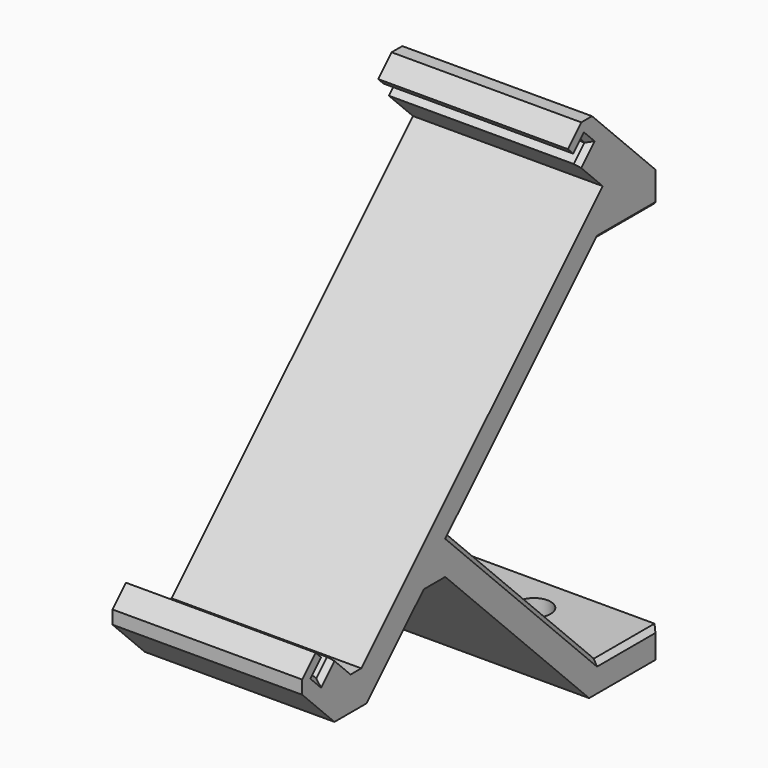
from build123d import *

# Parameters (mm, degrees)
CYLINDER004_R     = 3
CYLINDER004_DEPTH = 10
PAD010_DEPTH      = 10
SKETCH036_R       = 1.75
POCKET025_DEPTH   = 45.001
CHAMFER023_1_SIZE = 3
CHAMFER023_2_SIZE = 2
CHAMFER023_3_SIZE = 1
CHAMFER024_SIZE   = 0.5


with BuildPart() as boardbracketscrewheadcylinder001:
    # Cylinder004 → Cylinder004 (new body)
    with BuildSketch(Plane(origin=(0, 0.5, 24), x_dir=(1, 0, 0), z_dir=(0, 0, 1))):
        Circle(CYLINDER004_R)
    extrude(amount=CYLINDER004_DEPTH)


with BuildPart() as obj1:
    # Sketch035 → Pad010 (new body, symmetric)
    with BuildSketch(Plane.YZ):
        Polygon((4.5, 21), (4.5, 24), (-0.12132, 28.62132), (-5.071068, 33.571068), (-7.545942, 31.096194), (-6.838835, 30.389087), (-5.778175, 31.449747), (-4.717514, 30.389087), (-6.131728, 28.974874), (-2.949747, 25.792893), (-35.476659, -6.734019), (-38.65864, -3.552038), (-40.072853, -4.966252), (-41.133514, -3.905592), (-40.072853, -2.844931), (-40.77996, -2.137825), (-43.254834, -4.612698), (-38.305087, -9.562446), (-36.183766, -11.683766), (-25.12132, -0.62132), (-4.742641, -21), (4.5, -21), (4.5, -18), (-3.5, -18), (-23, 1.5), (-3.5, 21), align=None)
    extrude(amount=PAD010_DEPTH, both=True)

    # Cut002: cut BoardBracketScrewHeadCylinder001
    add(boardbracketscrewheadcylinder001.part, mode=Mode.SUBTRACT)

    # Sketch036 → Pocket025 (cut, through all)
    with BuildSketch(Plane.XY.offset(24)):
        with Locations((0, 0.5)):
            Circle(SKETCH036_R)
    extrude(amount=-POCKET025_DEPTH, mode=Mode.SUBTRACT)

    # Chamfer023 1
    chamfer023_1_edges = [obj1.edges().sort_by_distance(p)[0] for p in [
        (0, -36.183766, -11.683766),
    ]]
    chamfer(chamfer023_1_edges, length=CHAMFER023_1_SIZE)

    # Chamfer023 2
    chamfer023_2_edges = [obj1.edges().sort_by_distance(p)[0] for p in [
        (0, -25.12132, -0.62132),
    ]]
    chamfer(chamfer023_2_edges, length=CHAMFER023_2_SIZE)

    # Chamfer023 3
    chamfer023_3_edges = [obj1.edges().sort_by_distance(p)[0] for p in [
        (0, -35.476659, -6.734019),
        (0, -43.254834, -4.612698),
        (0, -5.071068, 33.571068),
    ]]
    chamfer(chamfer023_3_edges, length=CHAMFER023_3_SIZE)

    # Chamfer024
    chamfer024_edges = [obj1.edges().sort_by_distance(p)[0] for p in [
        (10, -5.424621, 29.681981),
        (10, -39.365747, -4.259145),
        (10, -5.247845, 30.919417),
        (10, -40.603184, -4.435922),
        (10, 4.5, 22.5),
        (10, 0.5, 21),
        (10, -13.25, 11.25),
        (10, -13.25, -8.25),
        (10, 0.5, -18),
        (10, 4.5, -19.5),
    ]]
    chamfer(chamfer024_edges, length=CHAMFER024_SIZE)


solid = obj1.part
